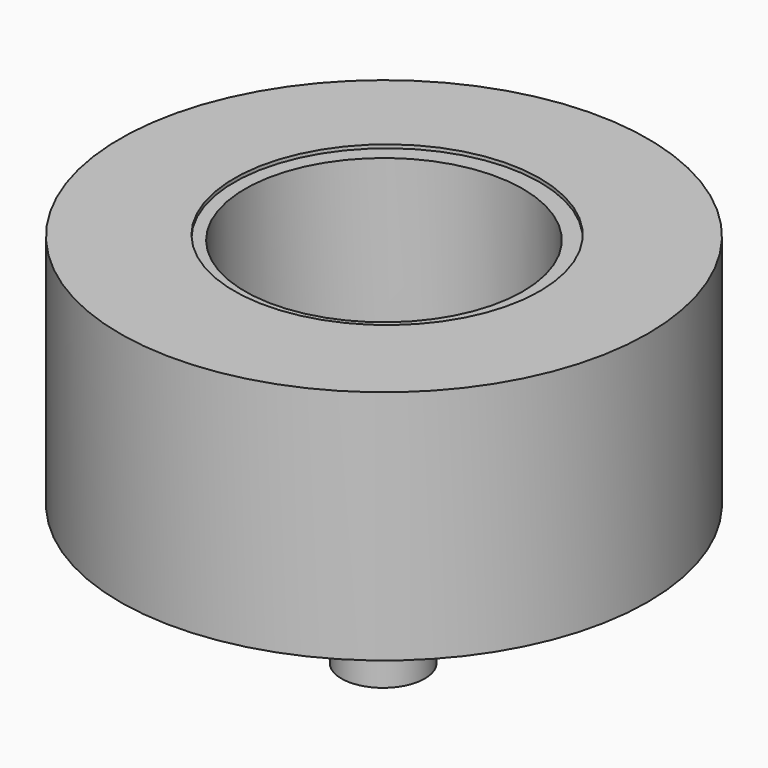
from build123d import *

# Parameters (mm, degrees)
F0_R      = 19
F1_DEPTH  = 17
F2_R      = 17
F2_R_2    = 10.5
F3_DEPTH  = 15
F4_R      = 3
F5_DEPTH  = 10
F6_R      = 10
F7_DEPTH  = 12
F8_R      = 2
F9_DEPTH  = 25
F10_DEPTH = 4
F8_R_2    = 4
F11_DEPTH = 2
F12_R     = 11
F13_DEPTH = 0.25
F14_R     = 2
F15_DEPTH = 4


with BuildPart() as f1:
    # F0 (on Top) → F1 (new body)
    with BuildSketch(Plane.XY):
        with Locations((19, 19)):
            Circle(F0_R)
    extrude(amount=F1_DEPTH)

    # F2 (on Top) → F3 (cut)
    with BuildSketch(Plane.XY):
        with Locations((19, 19)):
            Circle(F2_R)
        with Locations((19, 19)):
            Circle(F2_R_2, mode=Mode.SUBTRACT)
    extrude(amount=F3_DEPTH, mode=Mode.SUBTRACT)

    # F4 (on face) → F5 (join)
    with BuildSketch(Plane.XY):
        with Locations((19.039284, 18.877556)):
            Circle(F4_R)
    extrude(amount=-F5_DEPTH)

    # F6 (on face) → F7 (cut)
    with BuildSketch(Plane.XY.offset(17)):
        with Locations((19, 19)):
            Circle(F6_R)
    extrude(amount=-F7_DEPTH, mode=Mode.SUBTRACT)

    # F8 (on face) → F9 (cut)
    with BuildSketch(Plane.XY.offset(5)):
        with Locations((19, 26)):
            Circle(F8_R)
        with Locations((23.962697, 23.936764)):
            Circle(F8_R)
        with Locations((26, 19)):
            Circle(F8_R)
        with Locations((24.39163, 14.535661)):
            Circle(F8_R)
        with Locations((19, 12)):
            Circle(F8_R)
        with Locations((13.836625, 14.273526)):
            Circle(F8_R)
        with Locations((12, 19)):
            Circle(F8_R)
        with Locations((14.063236, 23.962697)):
            Circle(F8_R)
    extrude(amount=-F9_DEPTH, mode=Mode.SUBTRACT)

    # F8 (on face) → F10 (join)
    with BuildSketch(Plane.XY.offset(5)):
        with Locations((19, 19)):
            Circle(F8_R)
    extrude(amount=F10_DEPTH)

    # F8 (on face) → F11 (join)
    with BuildSketch(Plane.XY.offset(5)):
        with Locations((19, 19)):
            Circle(F8_R_2)
        with Locations((19, 19)):
            Circle(F8_R, mode=Mode.SUBTRACT)
    extrude(amount=F11_DEPTH)

    # F12 (on face) → F13 (cut)
    with BuildSketch(Plane.XY.offset(17)):
        with Locations((19.02286, 19.252149)):
            Circle(F12_R)
    extrude(amount=-F13_DEPTH, mode=Mode.SUBTRACT)

    # F14 (on face) → F15 (cut)
    with BuildSketch(Plane(origin=(0, 0, -10), x_dir=(1, 0, 0), z_dir=(0, 0, -1))):
        with Locations((19.039284, -18.877556)):
            Circle(F14_R)
    extrude(amount=-F15_DEPTH, mode=Mode.SUBTRACT)


solid = f1.part
